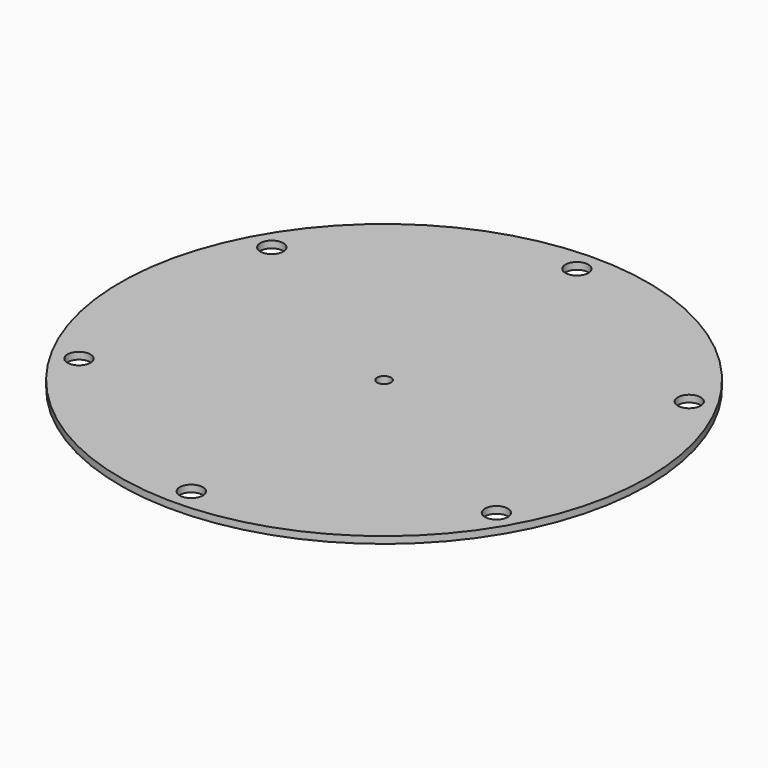
from build123d import *

# Parameters (mm, degrees)
F0_R     = 115
F0_R_2   = 5
F0_R_3   = 3
F1_DEPTH = 3


with BuildPart() as f1:
    # F0 (on Top) → F1 (new body)
    with BuildSketch(Plane.XY):
        Circle(F0_R)
        with Locations((-90.932667, -52.5)):
            Circle(F0_R_2, mode=Mode.SUBTRACT)
        with Locations((0, -105)):
            Circle(F0_R_2, mode=Mode.SUBTRACT)
        with Locations((90.932667, -52.5)):
            Circle(F0_R_2, mode=Mode.SUBTRACT)
        with Locations((-90.932667, 52.5)):
            Circle(F0_R_2, mode=Mode.SUBTRACT)
        Circle(F0_R_3, mode=Mode.SUBTRACT)
        with Locations((90.932667, 52.5)):
            Circle(F0_R_2, mode=Mode.SUBTRACT)
        with Locations((0, 105)):
            Circle(F0_R_2, mode=Mode.SUBTRACT)
    extrude(amount=F1_DEPTH)


solid = f1.part
